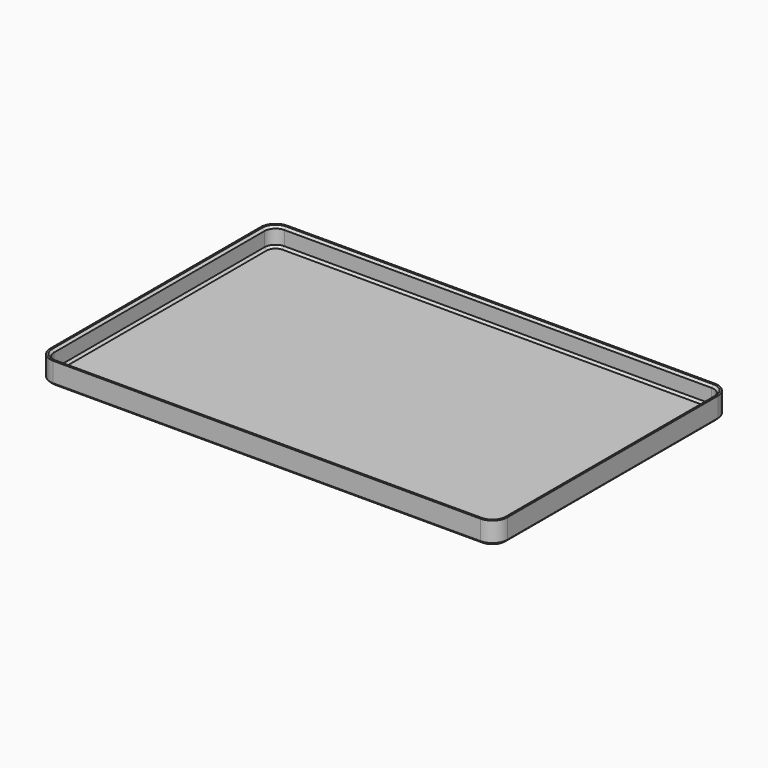
from build123d import *

# Parameters (mm, degrees)
F1_DEPTH = 1.5
F2_DEPTH = 10
F3_SIZE  = 1


with BuildPart() as f1:
    # F0 (on Top) → F1 (new body)
    with BuildSketch(Plane.XY):
        with BuildLine():
            ThreePointArc((102.5, 60), (101.035534, 63.535534), (97.5, 65))
            Line((97.5, 65), (-97.5, 65))
            ThreePointArc((-97.5, 65), (-101.035534, 63.535534), (-102.5, 60))
            Line((-102.5, 60), (-102.5, -60))
            ThreePointArc((-102.5, -60), (-101.035534, -63.535534), (-97.5, -65))
            Line((-97.5, -65), (97.5, -65))
            ThreePointArc((97.5, -65), (101.035534, -63.535534), (102.5, -60))
            Line((102.5, -60), (102.5, 60))
        make_face()
    extrude(amount=F1_DEPTH)

    # F0 (on Top) → F2 (join)
    with BuildSketch(Plane.XY):
        with BuildLine():
            Line((104.3, -60), (104.3, 60))
            ThreePointArc((104.3, 60), (102.308326, 64.808326), (97.5, 66.8))
            Line((97.5, 66.8), (-97.5, 66.8))
            ThreePointArc((-97.5, 66.8), (-102.308326, 64.808326), (-104.3, 60))
            Line((-104.3, 60), (-104.3, -60))
            ThreePointArc((-104.3, -60), (-102.308326, -64.808326), (-97.5, -66.8))
            Line((-97.5, -66.8), (97.5, -66.8))
            ThreePointArc((97.5, -66.8), (102.308326, -64.808326), (104.3, -60))
        make_face()
        with BuildLine():
            Line((-97.5, 65), (97.5, 65))
            ThreePointArc((97.5, 65), (101.035534, 63.535534), (102.5, 60))
            Line((102.5, 60), (102.5, -60))
            ThreePointArc((102.5, -60), (101.035534, -63.535534), (97.5, -65))
            Line((97.5, -65), (-97.5, -65))
            ThreePointArc((-97.5, -65), (-101.035534, -63.535534), (-102.5, -60))
            Line((-102.5, -60), (-102.5, 60))
            ThreePointArc((-102.5, 60), (-101.035534, 63.535534), (-97.5, 65))
        make_face(mode=Mode.SUBTRACT)
    extrude(amount=F2_DEPTH)

    # F3
    f3_edges = [f1.edges().sort_by_distance(p)[0] for p in [
        (102.308326, -64.808326, 0),
        (104.3, 0, 0),
        (102.308326, 64.808326, 0),
        (0, 66.8, 0),
        (-102.308326, 64.808326, 0),
        (-104.3, 0, 0),
        (-102.308326, -64.808326, 0),
        (0, -66.8, 0),
        (101.035534, 63.535534, 1.5),
        (0, 65, 1.5),
        (-101.035534, 63.535534, 1.5),
        (-102.5, 0, 1.5),
        (-101.035534, -63.535534, 1.5),
        (0, -65, 1.5),
        (101.035534, -63.535534, 1.5),
        (102.5, 0, 1.5),
        (97.5, 65, 5.75),
        (0, 65, 10),
        (-97.5, 65, 5.75),
    ]]
    chamfer(f3_edges, length=F3_SIZE)


solid = f1.part
